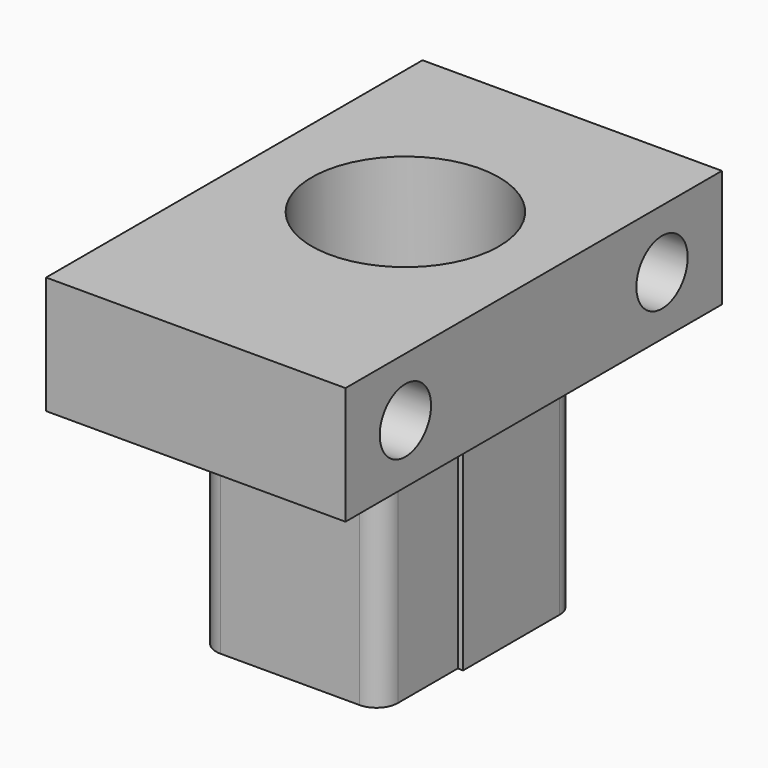
from build123d import *

# Parameters (mm, degrees)
PAD_DEPTH       = 22
BOX_W           = 28
BOX_H           = 44
BOX_DEPTH       = 11
SKETCH001_R     = 8.75
POCKET_DEPTH    = 33
FILLET_R        = 2
SKETCH003_R     = 3
POCKET002_DEPTH = 28.001


with BuildPart() as part:
    # Sketch → Pad (new body)
    with BuildSketch(Plane.XY):
        Polygon((0, 1), (17, 1), (17, 10), (17.5, 10), (17.5, 22), (15, 25), (2, 25), (-0.5, 22), (-0.5, 10), (0, 10), align=None)
    extrude(amount=PAD_DEPTH)

    # Box → Box (join)
    with BuildSketch(Plane(origin=(-5.5, -10, 22), x_dir=(1, 0, 0), z_dir=(0, 0, 1))):
        with Locations((14, 22)):
            Rectangle(BOX_W, BOX_H)
    extrude(amount=BOX_DEPTH)

    # Sketch001 (on Face4 of Box) → Pocket (cut)
    with BuildSketch(Plane(origin=(-5.5, -10, 0), x_dir=(1, 0, 0), z_dir=(0, 0, -1))):
        with Locations((14, -24.5)):
            Circle(SKETCH001_R)
    extrude(amount=-POCKET_DEPTH, mode=Mode.SUBTRACT)

    # Fillet
    fillet_edges = [part.edges().sort_by_distance(p)[0] for p in [
        (17.5, 22, 11),
        (15, 25, 11),
        (2, 25, 11),
        (17, 1, 11),
        (0, 1, 11),
        (-0.5, 22, 11),
    ]]
    fillet(fillet_edges, radius=FILLET_R)

    # Sketch003 (on Face23 of Fillet) → Pocket002 (cut, through all)
    with BuildSketch(Plane(origin=(22.5, -10, 22), x_dir=(0, 1, 0), z_dir=(1, 0, 0))):
        with Locations((7, 5.5)):
            Circle(SKETCH003_R)
        with Locations((37, 5.5)):
            Circle(SKETCH003_R)
    extrude(amount=-POCKET002_DEPTH, mode=Mode.SUBTRACT)


solid = part.part
